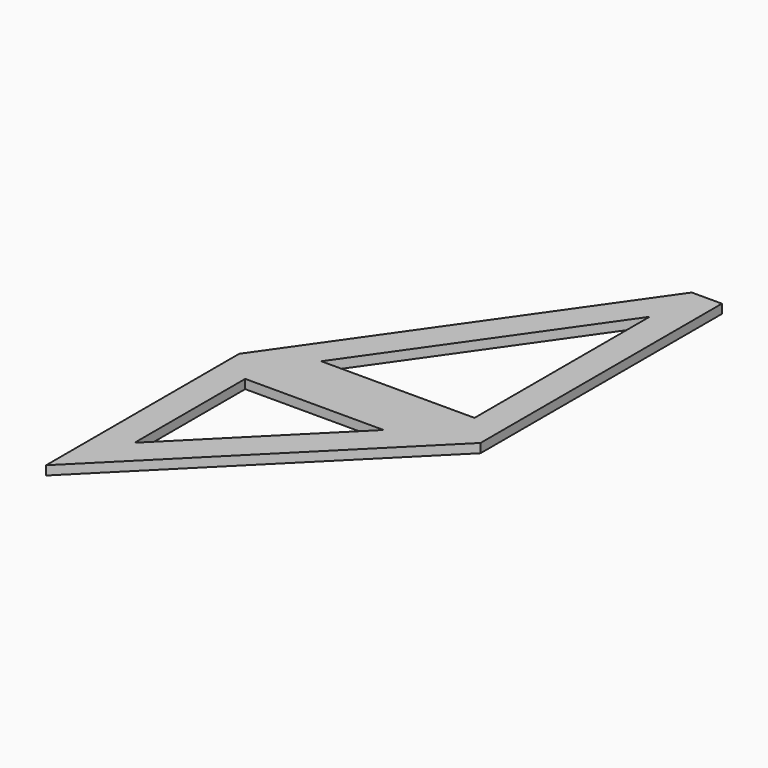
from build123d import *

# Parameters (mm, degrees)
F1_DEPTH = 1.5


with BuildPart() as f1:
    # F0 (on Top) → F1 (new body)
    with BuildSketch(Plane.XY):
        Polygon((35, 50), (0, 0), (40, 0), (40, 50), align=None)
        Polygon((9.603278, 5), (35, 41.281032), (35, 5), align=None, mode=Mode.SUBTRACT)
        Polygon((40, 0), (0, 0), (0, -40), align=None)
        Polygon((5, -27.928932), (5, -5), (27.928932, -5), align=None, mode=Mode.SUBTRACT)
    extrude(amount=F1_DEPTH)


solid = f1.part
